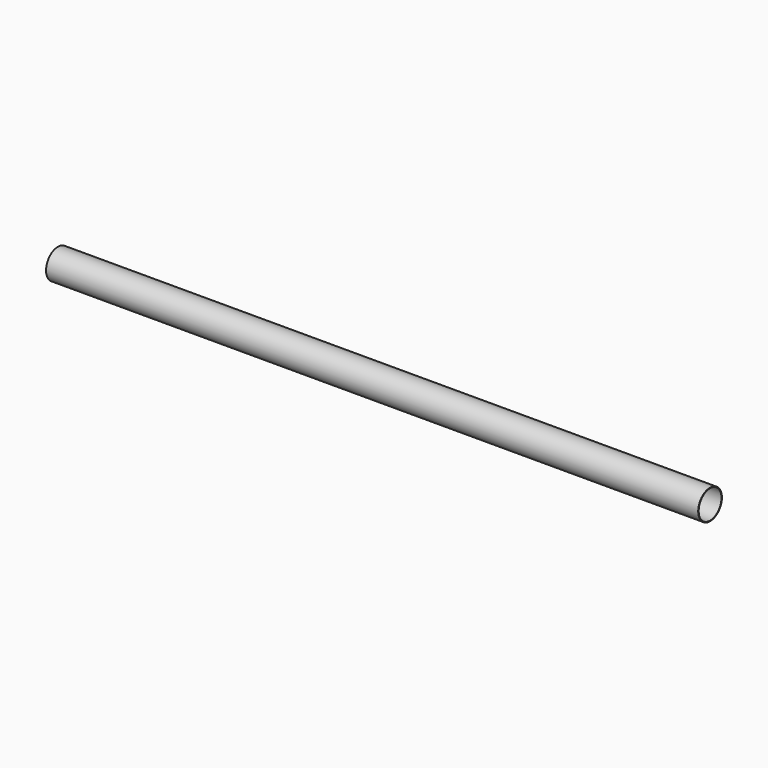
from build123d import *

# Parameters (mm, degrees)
F0_R       = 25.4
F1_DEPTH   = 1117.6
F2_R       = 24.4094
F1_FACE1_R = 25.4
F3_DEPTH   = 1120.14


with BuildPart() as f1:
    # F0 (on Right) → F1 (new body)
    with BuildSketch(Plane.YZ):
        Circle(F0_R)
    extrude(amount=F1_DEPTH)

    # F2 (on face) + F1_face1 (on face) → F3 (cut)
    with BuildSketch(Plane.YZ.offset(1117.6)):
        Circle(F2_R)
    with BuildSketch(Plane(origin=(0, 0, 0), x_dir=(0, 1, 0), z_dir=(-1, 0, 0))):
        Circle(F1_FACE1_R)
    extrude(amount=-F3_DEPTH, dir=(1, 0, 0), mode=Mode.SUBTRACT)


solid = f1.part
